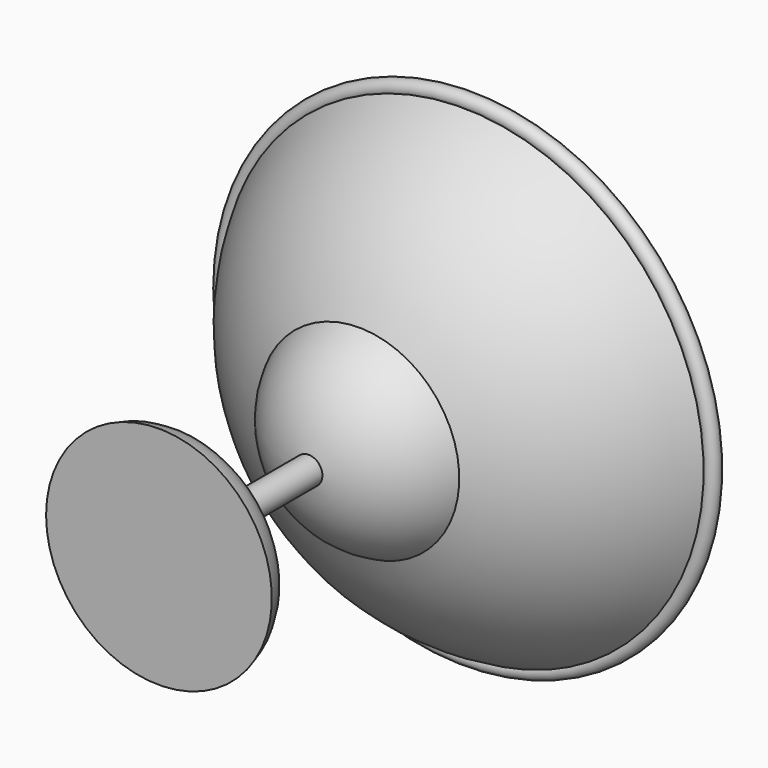
from build123d import *


with BuildPart() as f1:
    # F0 (on Top) → F1 (revolve)
    with BuildSketch(Plane.XY):
        with BuildLine():
            ThreePointArc((6.3216414859, -1.1434842183), (3.2064314046, -0.8725678996), (0.1847555931, -0.0679532135))
            ThreePointArc((0.1847555931, -0.0679532135), (0.1461379543, -0.1318937705), (0.0864787498, -0.1768437))
            ThreePointArc((0.0864787498, -0.1768437), (1.6046163355, -2.1761047411), (3.731210433, -3.510040266))
            ThreePointArc((3.731210433, -3.510040266), (5.00273237, -3.8822225922), (6.3216414859, -4.0077871738))
            Line((6.3216414859, -4.0077871738), (6.3216414859, -1.1434842183))
        make_face()
        with BuildLine():
            ThreePointArc((6.3216414859, -1.1434842183), (3.2064314046, -0.8725678996), (0.1847555931, -0.0679532135))
            ThreePointArc((0.1847555931, -0.0679532135), (0.1461379543, -0.1318937705), (0.0864787498, -0.1768437))
            ThreePointArc((0.0864787498, -0.1768437), (1.6046163355, -2.1761047411), (3.731210433, -3.510040266))
            ThreePointArc((3.731210433, -3.510040266), (5.00273237, -3.8822225922), (6.3216414859, -4.0077871738))
            Line((6.3216414859, -4.0077871738), (6.3216414859, -1.1434842183))
        make_face()
        with BuildLine():
            ThreePointArc((6.3216414859, -4.0077871738), (5.00273237, -3.8822225922), (3.731210433, -3.510040266))
            ThreePointArc((3.731210433, -3.510040266), (4.6384588947, -4.6111166634), (5.9648126806, -5.1367159773))
            ThreePointArc((5.9648126806, -5.1367159773), (6.1428773283, -5.1534759806), (6.3216414859, -5.1590699448))
            Line((6.3216414859, -5.1590699448), (6.3216414859, -4.0077871738))
        make_face()
        with BuildLine():
            ThreePointArc((6.3216414859, -5.1590699448), (6.1428773283, -5.1534759806), (5.9648126806, -5.1367159773))
            Line((5.9648126806, -5.1367159773), (5.9648126806, -8.9396471315))
            Line((5.9648126806, -8.9396471315), (6.3216414859, -8.9403389346))
            Line((6.3216414859, -8.9403389346), (6.3216414859, -5.1590699448))
        make_face()
    revolve(axis=Axis((6.3216414859, -2.5756356961, 0), (0, -1, 0)))


with BuildPart() as f1b:
    # F0 (on Top) → F1, piece 2 (revolve)
    with BuildSketch(Plane.XY):
        with BuildLine():
            ThreePointArc((0.0864787498, -0.1768437), (0.0426167614, -0.0887263157), (0, 0))
            ThreePointArc((0, 0), (0.092285137, -0.0342285355), (0.1847555931, -0.0679532135))
            ThreePointArc((0.1847555931, -0.0679532135), (0.1938072596, -0.0345110782), (0.1968559585, 0))
            ThreePointArc((0.1968559585, 0), (-0.1669971939, 0.1042315001), (0.0864787498, -0.1768437))
        make_face()
    revolve(axis=Axis((6.3216414859, -2.5756356961, 0), (0, -1, 0)))


with BuildPart() as f1c:
    # F0 (on Top) → F1, piece 3 (revolve)
    with BuildSketch(Plane.XY):
        with BuildLine():
            Line((6.3216414859, -9.9681960419), (6.3216414859, -8.9403389346))
            ThreePointArc((6.3216414859, -8.9403389346), (4.8809849989, -9.1675572599), (3.5827628778, -9.8321914491))
            ThreePointArc((3.5827628778, -9.8321914491), (3.4935331463, -9.899127301), (3.4059439786, -9.9681960419))
            Line((3.4059439786, -9.9681960419), (6.3216414859, -9.9681960419))
        make_face()
        with BuildLine():
            ThreePointArc((3.4059439786, -9.9681960419), (3.4935331463, -9.899127301), (3.5827628778, -9.8321914491))
            Line((3.5827628778, -9.8321914491), (3.8604675792, -9.2033712859))
            ThreePointArc((3.8604675792, -9.2033712859), (3.5644280946, -9.5449101429), (3.4059439786, -9.9681960419))
        make_face()
    revolve(axis=Axis((6.3216414859, -2.5756356961, 0), (0, -1, 0)))


solid = Compound([f1.part, f1b.part, f1c.part])
